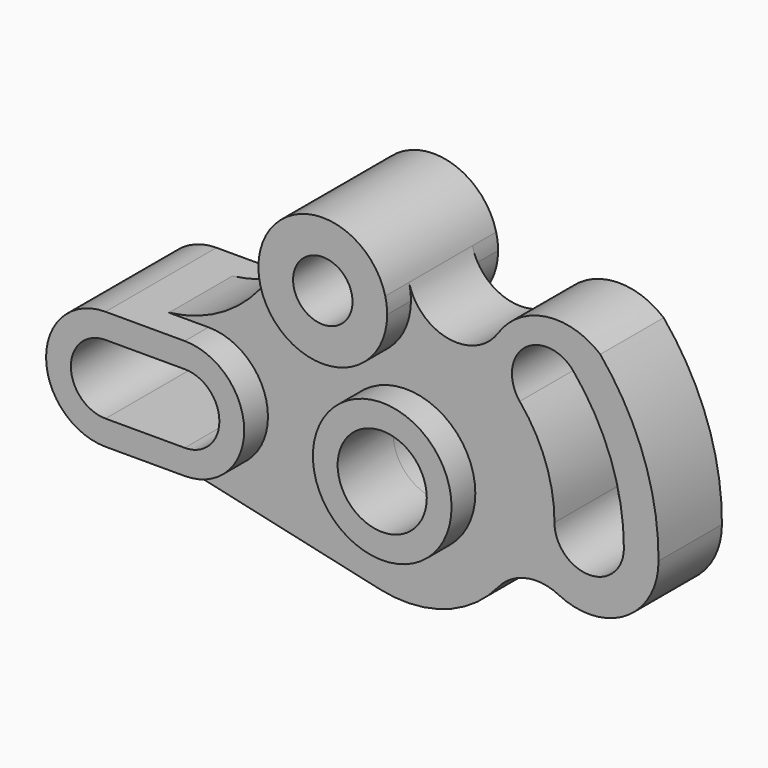
from build123d import *

# Parameters (mm, degrees)
F0_R     = 22.225
F1_DEPTH = 12.7
F0_R_2   = 14.2875
F0_R_3   = 9.525
F2_DEPTH = 22.225


with BuildPart() as f1:
    # F0 (on Front) → F1 (new body, symmetric)
    with BuildSketch(Plane.XZ):
        with BuildLine():
            ThreePointArc((0.971786, 52.628446), (1.432993, 50.145594), (1.5875, 47.625))
            ThreePointArc((1.5875, 47.625), (-19.05, 26.9875), (-39.6875, 47.625))
            ThreePointArc((-39.6875, 47.625), (-53.837568, 28.249011), (-75.9968, 19.05))
            Line((-75.9968, 19.05), (-63.2968, 19.05))
            ThreePointArc((-63.2968, 19.05), (-44.2468, 0), (-63.2968, -19.05))
            Line((-63.2968, -19.05), (-88.6968, -19.05))
            Line((-88.6968, -19.05), (-8.395337, -37.002993))
            ThreePointArc((-8.395337, -37.002993), (12.439533, -35.863776), (29.616348, -24.016978))
            ThreePointArc((29.616348, -24.016978), (38.533005, -18.624111), (48.872514, -19.921925))
            ThreePointArc((48.872514, -19.921925), (70.450489, -18.880117), (80.9498, 0))
            ThreePointArc((80.9498, 0), (76.233903, 27.779937), (62.281711, 52.26056))
            ThreePointArc((62.281711, 52.26056), (44.883221, 57.23725), (29.550918, 47.625))
            ThreePointArc((29.550918, 47.625), (13.635509, 40.840087), (0.971786, 52.628446))
        make_face()
        Circle(F0_R, mode=Mode.SUBTRACT)
        with BuildLine():
            ThreePointArc((69.85, 0), (58.7248, -11.1252), (47.5996, 0))
            ThreePointArc((47.5996, 0), (44.728993, 16.280022), (36.463409, 30.596433))
            ThreePointArc((36.463409, 30.596433), (37.92717, 46.15973), (53.508204, 44.898715))
            ThreePointArc((53.508204, 44.898715), (65.63753, 23.890107), (69.85, 0))
        make_face(mode=Mode.SUBTRACT)
    extrude(amount=F1_DEPTH, both=True)

    # F0 (on Front) → F2 (join, symmetric)
    with BuildSketch(Plane.XZ):
        Circle(F0_R)
        Circle(F0_R_2, mode=Mode.SUBTRACT)
        with BuildLine():
            Line((-63.2968, 19.05), (-75.9968, 19.05))
            Line((-75.9968, 19.05), (-88.6968, 19.05))
            ThreePointArc((-88.6968, 19.05), (-107.7468, 0), (-88.6968, -19.05))
            Line((-88.6968, -19.05), (-63.2968, -19.05))
            ThreePointArc((-63.2968, -19.05), (-44.2468, 0), (-63.2968, 19.05))
        make_face()
        with BuildLine():
            ThreePointArc((-88.6968, -11.0998), (-99.7966, 0), (-88.6968, 11.0998))
            Line((-88.6968, 11.0998), (-63.2968, 11.0998))
            ThreePointArc((-63.2968, 11.0998), (-52.197, 0), (-63.2968, -11.0998))
            Line((-63.2968, -11.0998), (-88.6968, -11.0998))
        make_face(mode=Mode.SUBTRACT)
        with BuildLine():
            ThreePointArc((-39.6875, 47.625), (-19.05, 26.9875), (1.5875, 47.625))
            ThreePointArc((1.5875, 47.625), (1.432993, 50.145594), (0.971786, 52.628446))
            ThreePointArc((0.971786, 52.628446), (-21.570594, 68.107993), (-39.6875, 47.625))
        make_face()
        with Locations((-19.05, 47.625)):
            Circle(F0_R_3, mode=Mode.SUBTRACT)
    extrude(amount=F2_DEPTH, both=True)


solid = f1.part
